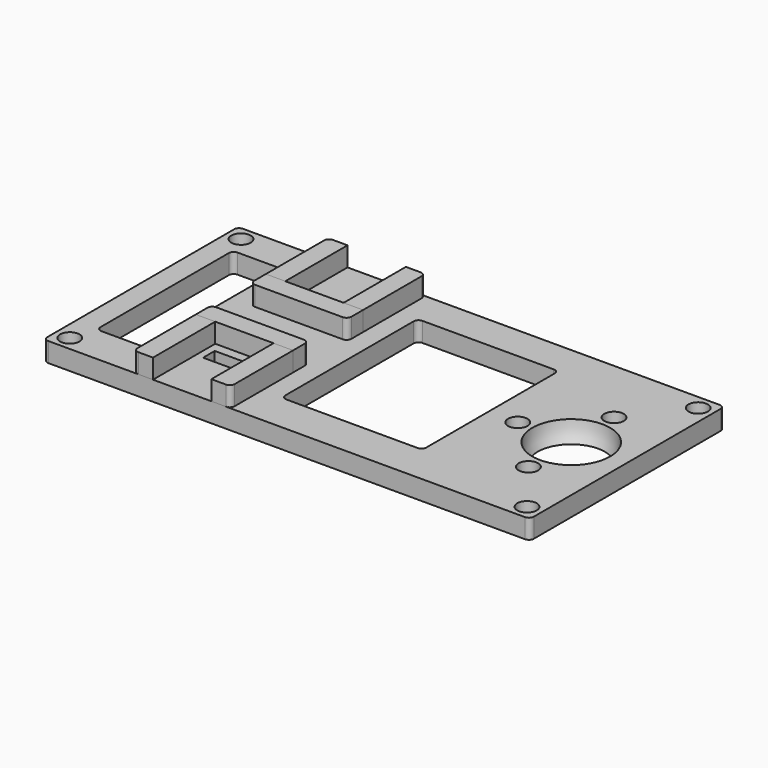
from build123d import *

# Parameters (mm, degrees)
CYLINDER006_R     = 2
CYLINDER006_DEPTH = 4
BOX010_W          = 29
BOX010_H          = 35
BOX010_DEPTH      = 4
CYLINDER004_R     = 2
CYLINDER004_DEPTH = 4
CYLINDER005_R     = 2
CYLINDER005_DEPTH = 4
BOX009_W          = 10
BOX009_H          = 35
BOX009_DEPTH      = 4
BOX008_W          = 9
BOX008_H          = 3
BOX008_DEPTH      = 4
BOX007_W          = 9
BOX007_H          = 3
BOX007_DEPTH      = 4
CYLINDER001_R     = 2
CYLINDER001_DEPTH = 4
CYLINDER002_R     = 2
CYLINDER002_DEPTH = 4
CYLINDER003_R     = 2
CYLINDER003_DEPTH = 4
CYLINDER_R        = 2
CYLINDER_DEPTH    = 4
BOX_W             = 100
BOX_H             = 50
BOX_DEPTH         = 4
FILLET_R          = 1
FILLET001_R       = 1
BOX003_W          = 4
BOX003_H          = 16
BOX003_DEPTH      = 4
FILLET002_R       = 1
BOX002_W          = 4
BOX002_H          = 16
BOX002_DEPTH      = 4
FILLET004_R       = 1
BOX006_W          = 20
BOX006_H          = 4
BOX006_DEPTH      = 4
FILLET005_R       = 1
BOX005_W          = 4
BOX005_H          = 16
BOX005_DEPTH      = 4
FILLET006_R       = 1
BOX001_W          = 20
BOX001_H          = 4
BOX001_DEPTH      = 4
FILLET003_R       = 1
FILLET007_R       = 1
BOX004_W          = 4
BOX004_H          = 16
BOX004_DEPTH      = 4
FILLET008_R       = 1


with BuildPart() as sphere:
    # Sphere → Sphere (revolve)
    with BuildSketch(Plane(origin=(66, 25, 4), x_dir=(1, 0, 0), z_dir=(0, -1, 0))):
        with BuildLine():
            ThreePointArc((0, -8), (8, 0), (0, 8))
            Line((0, 8), (0, -8))
        make_face()
    revolve(axis=Axis((66, 25, 4), (0, 0, 1)))


with BuildPart() as cylinder002:
    # Cylinder006 → Cylinder006 (new body)
    with BuildSketch(Plane(origin=(66, 36, 0), x_dir=(1, 0, 0), z_dir=(0, 0, 1))):
        Circle(CYLINDER006_R)
    extrude(amount=CYLINDER006_DEPTH)


with BuildPart() as cube010:
    # Box010 → Box010 (new body)
    with BuildSketch(Plane(origin=(20, 8, 0), x_dir=(1, 0, 0), z_dir=(0, 0, 1))):
        with Locations((14.5, 17.5)):
            Rectangle(BOX010_W, BOX010_H)
    extrude(amount=BOX010_DEPTH)


with BuildPart() as cylinder:
    # Cylinder004 → Cylinder004 (new body)
    with BuildSketch(Plane(origin=(55, 25, 0), x_dir=(1, 0, 0), z_dir=(0, 0, 1))):
        Circle(CYLINDER004_R)
    extrude(amount=CYLINDER004_DEPTH)


with BuildPart() as cylinder001:
    # Cylinder005 → Cylinder005 (new body)
    with BuildSketch(Plane(origin=(66, 14, 0), x_dir=(1, 0, 0), z_dir=(0, 0, 1))):
        Circle(CYLINDER005_R)
    extrude(amount=CYLINDER005_DEPTH)


with BuildPart() as cube009:
    # Box009 → Box009 (new body)
    with BuildSketch(Plane(origin=(-18, 8, 0), x_dir=(1, 0, 0), z_dir=(0, 0, 1))):
        with Locations((5, 17.5)):
            Rectangle(BOX009_W, BOX009_H)
    extrude(amount=BOX009_DEPTH)


with BuildPart() as cube008:
    # Box008 → Box008 (new body)
    with BuildSketch(Plane(origin=(1.5, 36, 0), x_dir=(1, 0, 0), z_dir=(0, 0, 1))):
        with Locations((4.5, 1.5)):
            Rectangle(BOX008_W, BOX008_H)
    extrude(amount=BOX008_DEPTH)


with BuildPart() as cube007:
    # Box007 → Box007 (new body)
    with BuildSketch(Plane(origin=(1.5, 11, 0), x_dir=(1, 0, 0), z_dir=(0, 0, 1))):
        with Locations((4.5, 1.5)):
            Rectangle(BOX007_W, BOX007_H)
    extrude(amount=BOX007_DEPTH)


with BuildPart() as cylinder001_body:
    # Cylinder001 → Cylinder001 (new body)
    with BuildSketch(Plane(origin=(3, 47, 0), x_dir=(1, 0, 0), z_dir=(0, 0, 1))):
        Circle(CYLINDER001_R)
    extrude(amount=CYLINDER001_DEPTH)


with BuildPart() as cylinder002_body:
    # Cylinder002 → Cylinder002 (new body)
    with BuildSketch(Plane(origin=(97, 3, 0), x_dir=(1, 0, 0), z_dir=(0, 0, 1))):
        Circle(CYLINDER002_R)
    extrude(amount=CYLINDER002_DEPTH)


with BuildPart() as cylinder003:
    # Cylinder003 → Cylinder003 (new body)
    with BuildSketch(Plane(origin=(97, 47, 0), x_dir=(1, 0, 0), z_dir=(0, 0, 1))):
        Circle(CYLINDER003_R)
    extrude(amount=CYLINDER003_DEPTH)


with BuildPart() as cylinder_body:
    # Cylinder → Cylinder (new body)
    with BuildSketch(Plane(origin=(3, 3, 0), x_dir=(1, 0, 0), z_dir=(0, 0, 1))):
        Circle(CYLINDER_R)
    extrude(amount=CYLINDER_DEPTH)


with BuildPart() as fillet001:
    # Box → Box (new body)
    with BuildSketch(Plane.XY):
        with Locations((50, 25)):
            Rectangle(BOX_W, BOX_H)
    extrude(amount=BOX_DEPTH)

    # Cut: cut Cylinder body
    add(cylinder_body.part, mode=Mode.SUBTRACT)

    # Cut001: cut Cylinder003
    add(cylinder003.part, mode=Mode.SUBTRACT)

    # Cut002: cut Cylinder002 body
    add(cylinder002_body.part, mode=Mode.SUBTRACT)

    # Cut003: cut Cylinder001 body
    add(cylinder001_body.part, mode=Mode.SUBTRACT)


with BuildPart() as fillet001_1:
    # Cut003 placement: moved
    add(fillet001.part.moved(Location((-22.5, 0, 0))))

    # Cut004: cut Cube007
    add(cube007.part, mode=Mode.SUBTRACT)

    # Cut005: cut Cube008
    add(cube008.part, mode=Mode.SUBTRACT)

    # Cut006: cut Cube009
    add(cube009.part, mode=Mode.SUBTRACT)

    # Cut007: cut Cylinder001
    add(cylinder001.part, mode=Mode.SUBTRACT)

    # Cut008: cut Cylinder
    add(cylinder.part, mode=Mode.SUBTRACT)

    # Cut009: cut Cube010
    add(cube010.part, mode=Mode.SUBTRACT)

    # Cut010: cut Cylinder002
    add(cylinder002.part, mode=Mode.SUBTRACT)

    # Cut011: cut Sphere
    add(sphere.part, mode=Mode.SUBTRACT)

    # Fillet
    fillet_edges = [fillet001_1.edges().sort_by_distance(p)[0] for p in [
        (-22.5, 0, 2),
        (-22.5, 50, 2),
        (77.5, 0, 2),
        (77.5, 50, 2),
    ]]
    fillet(fillet_edges, radius=FILLET_R)

    # Fillet001
    fillet001_edges = [fillet001_1.edges().sort_by_distance(p)[0] for p in [
        (-18, 8, 2),
        (-18, 43, 2),
        (-8, 43, 2),
        (-8, 8, 2),
        (20, 8, 2),
        (20, 43, 2),
        (49, 43, 2),
        (49, 8, 2),
    ]]
    fillet(fillet001_edges, radius=FILLET001_R)


with BuildPart() as fillet002:
    # Box003 → Box003 (new body)
    with BuildSketch(Plane(origin=(12, 0, 4), x_dir=(1, 0, 0), z_dir=(0, 0, 1))):
        with Locations((2, 8)):
            Rectangle(BOX003_W, BOX003_H)
    extrude(amount=BOX003_DEPTH)

    # Fillet002
    fillet002_edges = [fillet002.edges().sort_by_distance(p)[0] for p in [
        (16, 0, 6),
    ]]
    fillet(fillet002_edges, radius=FILLET002_R)


with BuildPart() as fillet004:
    # Box002 → Box002 (new body)
    with BuildSketch(Plane(origin=(-4, 0, 4), x_dir=(1, 0, 0), z_dir=(0, 0, 1))):
        with Locations((2, 8)):
            Rectangle(BOX002_W, BOX002_H)
    extrude(amount=BOX002_DEPTH)

    # Fillet004
    fillet004_edges = [fillet004.edges().sort_by_distance(p)[0] for p in [
        (-4, 0, 6),
    ]]
    fillet(fillet004_edges, radius=FILLET004_R)


with BuildPart() as fillet005:
    # Box006 → Box006 (new body)
    with BuildSketch(Plane(origin=(-4, 30, 4), x_dir=(1, 0, 0), z_dir=(0, 0, 1))):
        with Locations((10, 2)):
            Rectangle(BOX006_W, BOX006_H)
    extrude(amount=BOX006_DEPTH)

    # Fillet005
    fillet005_edges = [fillet005.edges().sort_by_distance(p)[0] for p in [
        (-4, 30, 6),
        (16, 30, 6),
    ]]
    fillet(fillet005_edges, radius=FILLET005_R)


with BuildPart() as fillet006:
    # Box005 → Box005 (new body)
    with BuildSketch(Plane(origin=(12, 34, 4), x_dir=(1, 0, 0), z_dir=(0, 0, 1))):
        with Locations((2, 8)):
            Rectangle(BOX005_W, BOX005_H)
    extrude(amount=BOX005_DEPTH)

    # Fillet006
    fillet006_edges = [fillet006.edges().sort_by_distance(p)[0] for p in [
        (16, 50, 6),
    ]]
    fillet(fillet006_edges, radius=FILLET006_R)


with BuildPart() as fillet007:
    # Box001 → Box001 (new body)
    with BuildSketch(Plane(origin=(-4, 16, 4), x_dir=(1, 0, 0), z_dir=(0, 0, 1))):
        with Locations((10, 2)):
            Rectangle(BOX001_W, BOX001_H)
    extrude(amount=BOX001_DEPTH)

    # Fillet003
    fillet003_edges = [fillet007.edges().sort_by_distance(p)[0] for p in [
        (16, 20, 6),
    ]]
    fillet(fillet003_edges, radius=FILLET003_R)

    # Fillet007
    fillet007_edges = [fillet007.edges().sort_by_distance(p)[0] for p in [
        (-4, 20, 6),
    ]]
    fillet(fillet007_edges, radius=FILLET007_R)


with BuildPart() as fillet008:
    # Box004 → Box004 (new body)
    with BuildSketch(Plane(origin=(-4, 34, 4), x_dir=(1, 0, 0), z_dir=(0, 0, 1))):
        with Locations((2, 8)):
            Rectangle(BOX004_W, BOX004_H)
    extrude(amount=BOX004_DEPTH)

    # Fillet008
    fillet008_edges = [fillet008.edges().sort_by_distance(p)[0] for p in [
        (-4, 50, 6),
    ]]
    fillet(fillet008_edges, radius=FILLET008_R)


solid = Compound([fillet001_1.part, fillet002.part, fillet004.part, fillet005.part, fillet006.part, fillet007.part, fillet008.part])
